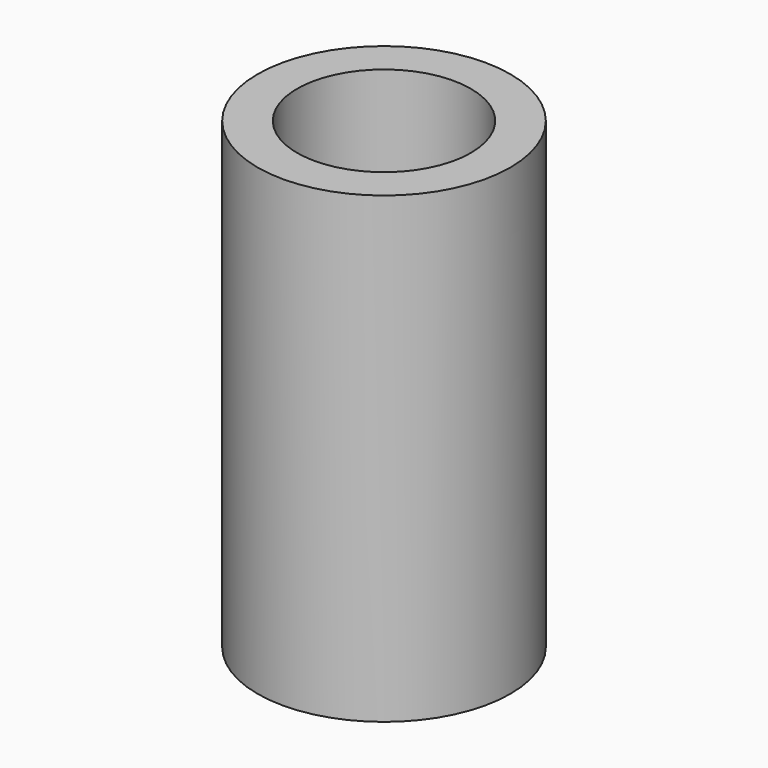
from build123d import *

# Parameters (mm, degrees)
SKETCH001_R   = 6
SKETCH001_R_2 = 4.125
PAD001_DEPTH  = 22


with BuildPart() as part:
    # Sketch001 → Pad001 (new body)
    with BuildSketch(Plane.XY.offset(3)):
        Circle(SKETCH001_R)
        Circle(SKETCH001_R_2, mode=Mode.SUBTRACT)
    extrude(amount=PAD001_DEPTH)


solid = part.part
